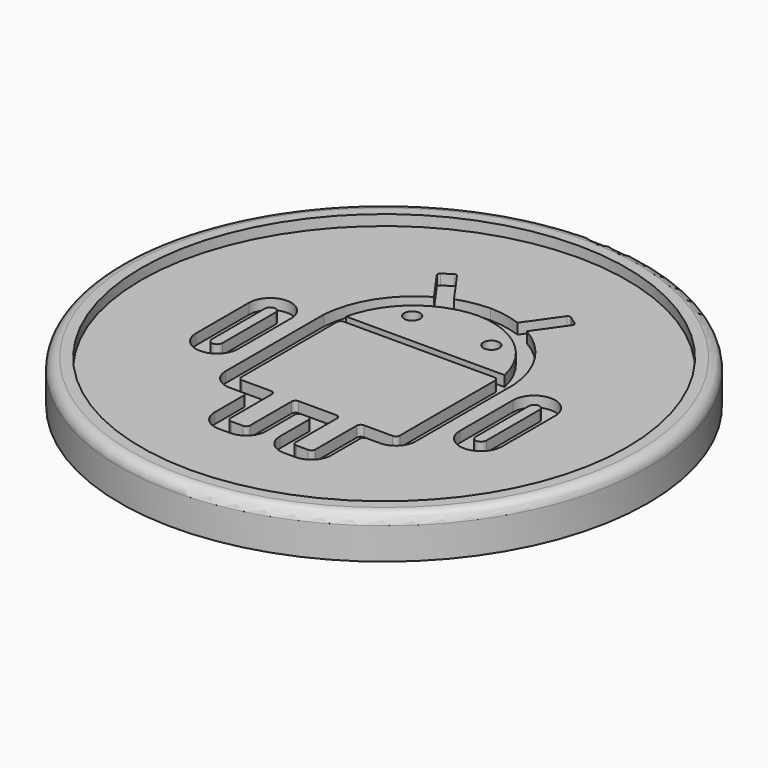
from build123d import *

# Parameters (mm, degrees)
F0_R      = 50
F2_DEPTH  = 8
F4_R      = 2
F6_R      = 46
F7_DEPTH  = 2
F9_DEPTH  = 2
F8_R      = 1.5
F10_DEPTH = 2


with BuildPart() as f2:
    # F0 (on Top) → F2 (new body)
    with BuildSketch(Plane.XY):
        Circle(F0_R)
    extrude(amount=F2_DEPTH)

    # F4
    f4_edges = [f2.edges().sort_by_distance(p)[0] for p in [
        (-50, 0, 8),
    ]]
    fillet(f4_edges, radius=F4_R)

    # F6 (on face) → F7 (cut)
    with BuildSketch(Plane.XY.offset(8)):
        Circle(F6_R)
    extrude(amount=-F7_DEPTH, mode=Mode.SUBTRACT)

    # F8 (on face) → F9 (cut)
    with BuildSketch(Plane.XY.offset(6)):
        with BuildLine():
            ThreePointArc((-1.3134240992, -19.5237704918), (-1.0937541851, -18.9934404059), (-0.5634240992, -18.7737704918))
            Line((-0.5634240992, -18.7737704918), (0, -18.7737704918))
            Line((0, -18.7737704918), (0.5634240992, -18.7737704918))
            ThreePointArc((0.5634240992, -18.7737704918), (1.0937541851, -18.9934404059), (1.3134240992, -19.5237704918))
            Line((1.3134240992, -19.5237704918), (1.3134240992, -26.3196417335))
            ThreePointArc((1.3134240992, -26.3196417335), (2.4117736698, -28.9712921629), (5.0634240992, -30.0696417335))
            Line((5.0634240992, -30.0696417335), (7.2902552709, -30.0696417335))
            ThreePointArc((7.2902552709, -30.0696417335), (9.9419057003, -28.9712921629), (11.0402552709, -26.3196417335))
            Line((11.0402552709, -26.3196417335), (11.0402552709, -19.5237704918))
            ThreePointArc((11.0402552709, -19.5237704918), (11.259925185, -18.9934404059), (11.7902552709, -18.7737704918))
            Line((11.7902552709, -18.7737704918), (14.25, -18.7737704918))
            ThreePointArc((14.25, -18.7737704918), (16.9016504294, -17.6754209213), (18, -15.0237704918))
            Line((18, -15.0237704918), (18, 8.2737704918))
            ThreePointArc((18, 8.2737704918), (15.2027368941, 16.6809104679), (8.7900681537, 22.7950222666))
            Line((8.7900681537, 22.7950222666), (12.8468124166, 28.5337620023))
            ThreePointArc((12.8468124166, 28.5337620023), (12.9313132133, 28.9069994934), (12.7271455387, 29.2306693407))
            Line((12.7271455387, 29.2306693407), (11.0939971059, 30.3851502616))
            ThreePointArc((11.0939971059, 30.3851502616), (10.7207596148, 30.4696510582), (10.3970897675, 30.2654833836))
            Line((10.3970897675, 30.2654833836), (6.0233529733, 24.078320598))
            ThreePointArc((6.0233529733, 24.078320598), (3.0586137327, 24.8896799806), (0, 25.1944173204))
            ThreePointArc((0, 25.1944173204), (-3.0586137327, 24.8896799806), (-6.0233529733, 24.078320598))
            Line((-6.0233529733, 24.078320598), (-10.3970897675, 30.2654833836))
            ThreePointArc((-10.3970897675, 30.2654833836), (-10.7207596148, 30.4696510582), (-11.0939971059, 30.3851502616))
            Line((-11.0939971059, 30.3851502616), (-12.7271455387, 29.2306693407))
            ThreePointArc((-12.7271455387, 29.2306693407), (-12.9313132133, 28.9069994934), (-12.8468124166, 28.5337620023))
            Line((-12.8468124166, 28.5337620023), (-8.7900681537, 22.7950222666))
            ThreePointArc((-8.7900681537, 22.7950222666), (-15.2027368941, 16.6809104679), (-18, 8.2737704918))
            Line((-18, 8.2737704918), (-18, -15.0237704918))
            ThreePointArc((-18, -15.0237704918), (-16.9016504294, -17.6754209213), (-14.25, -18.7737704918))
            Line((-14.25, -18.7737704918), (-11.7902552709, -18.7737704918))
            ThreePointArc((-11.7902552709, -18.7737704918), (-11.259925185, -18.9934404059), (-11.0402552709, -19.5237704918))
            Line((-11.0402552709, -19.5237704918), (-11.0402552709, -26.3196417335))
            ThreePointArc((-11.0402552709, -26.3196417335), (-9.9419057003, -28.9712921629), (-7.2902552709, -30.0696417335))
            Line((-7.2902552709, -30.0696417335), (-5.0634240992, -30.0696417335))
            ThreePointArc((-5.0634240992, -30.0696417335), (-2.4117736698, -28.9712921629), (-1.3134240992, -26.3196417335))
            Line((-1.3134240992, -26.3196417335), (-1.3134240992, -19.5237704918))
        make_face()
        with BuildLine():
            Line((-14.25, 8.2737704918), (0, 8.2737704918))
            Line((0, 8.2737704918), (14.25, 8.2737704918))
            ThreePointArc((14.25, 8.2737704918), (14.7803300859, 8.0541005777), (15, 7.5237704918))
            Line((15, 7.5237704918), (15, -15.0237704918))
            ThreePointArc((15, -15.0237704918), (14.7803300859, -15.5541005777), (14.25, -15.7737704918))
            Line((14.25, -15.7737704918), (8.7902552709, -15.7737704918))
            ThreePointArc((8.7902552709, -15.7737704918), (8.259925185, -15.9934404059), (8.0402552709, -16.5237704918))
            Line((8.0402552709, -16.5237704918), (8.0402552709, -26.3196417335))
            ThreePointArc((8.0402552709, -26.3196417335), (7.8205853568, -26.8499718194), (7.2902552709, -27.0696417335))
            Line((7.2902552709, -27.0696417335), (5.0634240992, -27.0696417335))
            ThreePointArc((5.0634240992, -27.0696417335), (4.5330940133, -26.8499718194), (4.3134240992, -26.3196417335))
            Line((4.3134240992, -26.3196417335), (4.3134240992, -16.5237704918))
            ThreePointArc((4.3134240992, -16.5237704918), (4.0937541851, -15.9934404059), (3.5634240992, -15.7737704918))
            Line((3.5634240992, -15.7737704918), (0, -15.7737704918))
            Line((0, -15.7737704918), (-3.5634240992, -15.7737704918))
            ThreePointArc((-3.5634240992, -15.7737704918), (-4.0937541851, -15.9934404059), (-4.3134240992, -16.5237704918))
            Line((-4.3134240992, -16.5237704918), (-4.3134240992, -26.3196417335))
            ThreePointArc((-4.3134240992, -26.3196417335), (-4.5330940133, -26.8499718194), (-5.0634240992, -27.0696417335))
            Line((-5.0634240992, -27.0696417335), (-7.2902552709, -27.0696417335))
            ThreePointArc((-7.2902552709, -27.0696417335), (-7.8205853568, -26.8499718194), (-8.0402552709, -26.3196417335))
            Line((-8.0402552709, -26.3196417335), (-8.0402552709, -16.5237704918))
            ThreePointArc((-8.0402552709, -16.5237704918), (-8.259925185, -15.9934404059), (-8.7902552709, -15.7737704918))
            Line((-8.7902552709, -15.7737704918), (-14.25, -15.7737704918))
            ThreePointArc((-14.25, -15.7737704918), (-14.7803300859, -15.5541005777), (-15, -15.0237704918))
            Line((-15, -15.0237704918), (-15, 7.5237704918))
            ThreePointArc((-15, 7.5237704918), (-14.7803300859, 8.0541005777), (-14.25, 8.2737704918))
        make_face(mode=Mode.SUBTRACT)
        with BuildLine():
            Line((15, 9.7737704918), (0, 9.7737704918))
            Line((0, 9.7737704918), (-15, 9.7737704918))
            ThreePointArc((-15, 9.7737704918), (-9.6695107404, 18.6041395087), (0, 22.1944173204))
            ThreePointArc((0, 22.1944173204), (9.6695107404, 18.6041395087), (15, 9.7737704918))
        make_face(mode=Mode.SUBTRACT)
        with BuildLine():
            Line((-21, -8.3022542986), (-21, 4.2737704918))
            ThreePointArc((-21, 4.2737704918), (-25, 8.2737704918), (-29, 4.2737704918))
            Line((-29, 4.2737704918), (-29, -8.3022542986))
            ThreePointArc((-29, -8.3022542986), (-25, -12.3022542986), (-21, -8.3022542986))
        make_face()
        with BuildLine():
            Line((-26, -8.3022542986), (-26, 4.2737704918))
            ThreePointArc((-26, 4.2737704918), (-25, 5.2737704918), (-24, 4.2737704918))
            Line((-24, 4.2737704918), (-24, -8.3022542986))
            ThreePointArc((-24, -8.3022542986), (-25, -9.3022542986), (-26, -8.3022542986))
        make_face(mode=Mode.SUBTRACT)
        with BuildLine():
            ThreePointArc((21, -8.3022542986), (25, -12.3022542986), (29, -8.3022542986))
            Line((29, -8.3022542986), (29, 4.2737704918))
            ThreePointArc((29, 4.2737704918), (25, 8.2737704918), (21, 4.2737704918))
            Line((21, 4.2737704918), (21, -8.3022542986))
        make_face()
        with BuildLine():
            Line((26, 4.2737704918), (26, -8.3022542986))
            ThreePointArc((26, -8.3022542986), (25, -9.3022542986), (24, -8.3022542986))
            Line((24, -8.3022542986), (24, 4.2737704918))
            ThreePointArc((24, 4.2737704918), (25, 5.2737704918), (26, 4.2737704918))
        make_face(mode=Mode.SUBTRACT)
    extrude(amount=-F9_DEPTH, mode=Mode.SUBTRACT)

    # F8 (on face) → F10 (cut)
    with BuildSketch(Plane.XY.offset(6)):
        with Locations((-7.5, 16.0260769339)):
            Circle(F8_R)
        with Locations((7.5, 16.0260769339)):
            Circle(F8_R)
    extrude(amount=-F10_DEPTH, mode=Mode.SUBTRACT)


solid = f2.part
